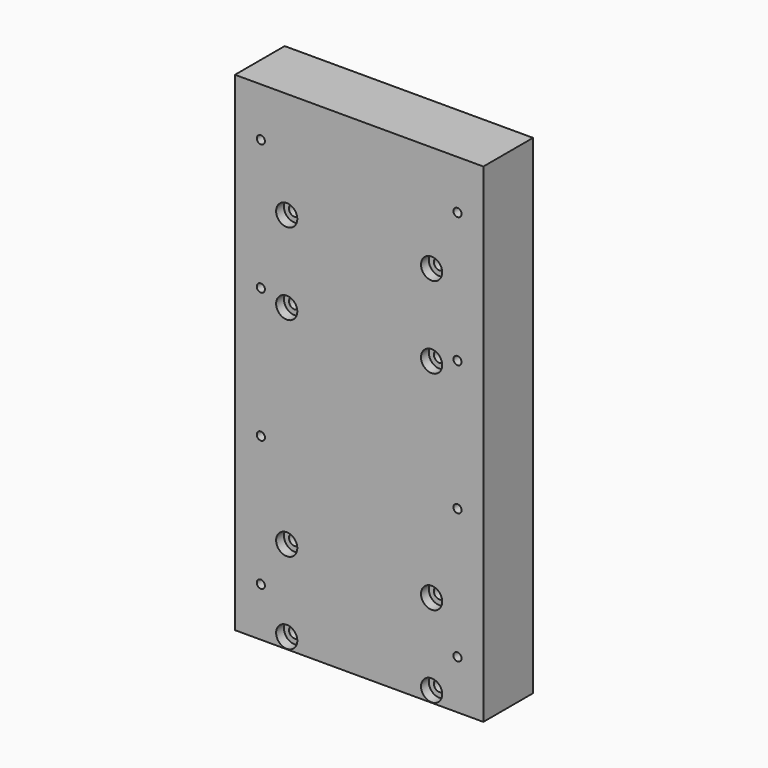
from build123d import *

# Parameters (mm, degrees)
F0_W           = 76.2
F0_H           = 150
F1_DEPTH       = 19.05
F3_D           = 3.4
F3_CBORE_D     = 6.5
F3_CBORE_DEPTH = 3
F5_D           = 2.5
F5_DEPTH       = 20.55
F5_TIP         = 0.7510757738


with BuildPart() as f1:
    # F0 (on Front) → F1 (new body)
    with BuildSketch(Plane.XZ):
        with Locations((38.1, 75)):
            Rectangle(F0_W, F0_H)
    extrude(amount=F1_DEPTH)

    # F3 (through all)
    with Locations(Plane.XZ.offset(19.05)):
        with Locations((15.875, 117.275), (15.875, 92.275), (15.875, 28.375), (15.875, 3.375), (60.325, 3.375), (60.325, 28.375), (60.325, 92.275), (60.325, 117.275)):
            CounterBoreHole(F3_D / 2, F3_CBORE_D / 2, F3_CBORE_DEPTH)

    # F5
    with Locations(Plane.XZ.offset(19.05)):
        with Locations((7.9375, 135), (7.9375, 95), (7.9375, 55), (7.9375, 15), (68.2625, 15), (68.2625, 55), (68.2625, 95), (68.2625, 135)):
            Hole(F5_D / 2, depth=F5_DEPTH)
            with Locations((0, 0, -(F5_DEPTH + F5_TIP / 2))):  # 118° drill point
                Cone(0, F5_D / 2, F5_TIP, mode=Mode.SUBTRACT)


solid = f1.part
